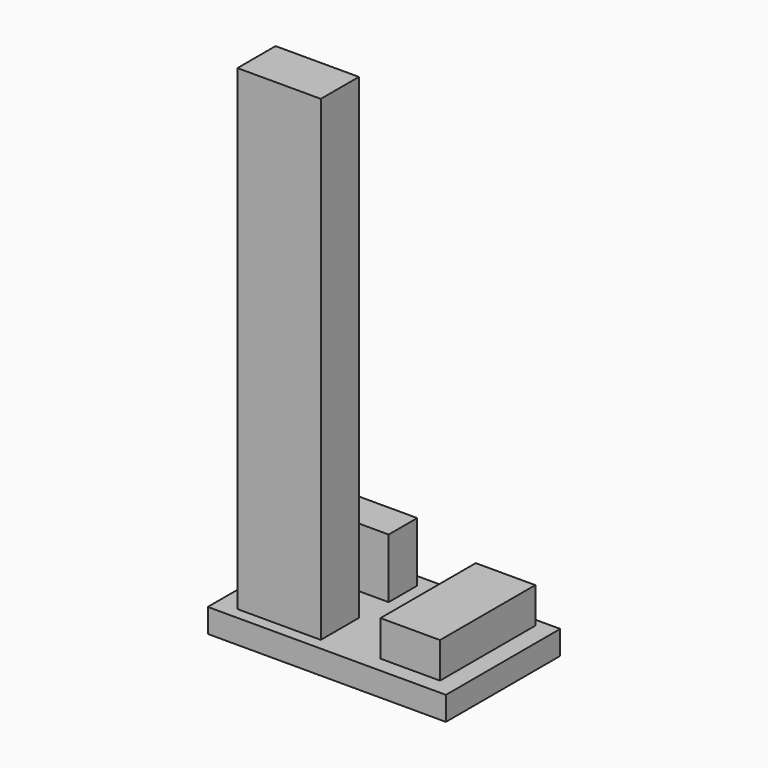
from build123d import *

# Parameters (mm, degrees)
F0_W     = 8
F0_H     = 3
F1_DEPTH = 5
F0_W_2   = 7
F0_H_2   = 4
F2_DEPTH = 40
F0_W_3   = 5
F0_H_3   = 10
F3_DEPTH = 3
F0_W_4   = 20
F0_H_4   = 12
F4_DEPTH = 2
F5_DEPTH = 1


with BuildPart() as f1:
    # F0 (on Top) → F1 (new body)
    with BuildSketch(Plane.XY):
        with Locations((-15.1580379307, 9.4352371395)):
            Rectangle(F0_W, F0_H)
    extrude(amount=F1_DEPTH)



with BuildPart() as f2:
    # F0 (on Top) → F2 (new body)
    with BuildSketch(Plane.XY):
        with Locations((-14.7853907049, 2.9733350016)):
            Rectangle(F0_W_2, F0_H_2)
    extrude(amount=F2_DEPTH)


with BuildPart() as f3:
    # F0 (on Top) → F3 (new body)
    with BuildSketch(Plane.XY):
        with Locations((-4.0641951468, 6.3341652229)):
            Rectangle(F0_W_3, F0_H_3)
    extrude(amount=F3_DEPTH)


with BuildPart() as f1_1:
    add(f1.part)

    add(f2.part)  # F4 merges F2

    add(f3.part)  # F4 merges F3
    # F0 (on Top) → F4 (join)
    with BuildSketch(Plane.XY):
        with Locations((-10, 6)):
            Rectangle(F0_W_4, F0_H_4)
        with Locations((-14.7853907049, 2.9733350016)):
            Rectangle(F0_W_2, F0_H_2, mode=Mode.SUBTRACT)
        with Locations((-15.1580379307, 9.4352371395)):
            Rectangle(F0_W, F0_H, mode=Mode.SUBTRACT)
        with Locations((-4.0641951468, 6.3341652229)):
            Rectangle(F0_W_3, F0_H_3, mode=Mode.SUBTRACT)
    extrude(amount=-F4_DEPTH)

    # F0 (on Top) → F5 (join)
    with BuildSketch(Plane.XY):
        with Locations((-14.7853907049, 2.9733350016)):
            Rectangle(F0_W_2, F0_H_2)
        with Locations((-15.1580379307, 9.4352371395)):
            Rectangle(F0_W, F0_H)
        with Locations((-4.0641951468, 6.3341652229)):
            Rectangle(F0_W_3, F0_H_3)
    extrude(amount=-F5_DEPTH)


solid = f1_1.part
